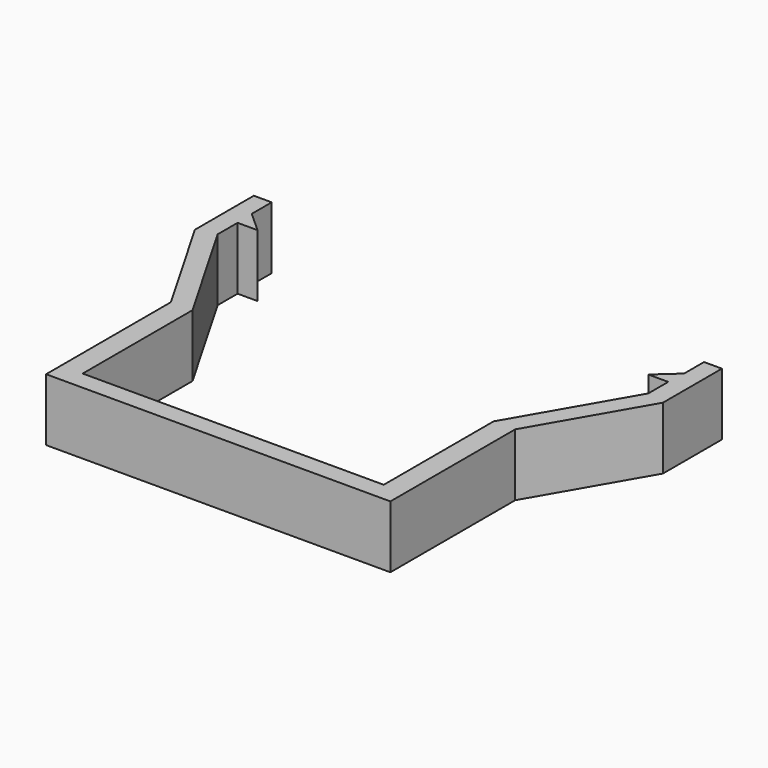
from build123d import *

# Parameters (mm, degrees)
F0_W     = 2.864896
F0_H     = 4
F1_DEPTH = 10


with BuildPart() as f1:
    # F0 (on Top) → F1 (new body)
    with BuildSketch(Plane.XY):
        with Locations((-36.067552, 27)):
            Rectangle(F0_W, F0_H)
        with Locations((36.067552, 27)):
            Rectangle(F0_W, F0_H)
        Polygon((27.581504, -25), (27.581504, 0), (37.5, 17.196862), (37.5, 25), (34.635104, 25), (31.3, 22), (34.5, 22), (34.5, 18), (25.84857, 3), (24.118284, 0), (24.118284, -22), (-24.118284, -22), (-24.118284, 0), (-25.84857, 3), (-34.5, 18), (-34.5, 22), (-31.3, 22), (-34.635104, 25), (-37.5, 25), (-37.5, 17.196862), (-27.581504, 0), (-27.581504, -25), align=None)
    extrude(amount=F1_DEPTH)


solid = f1.part
